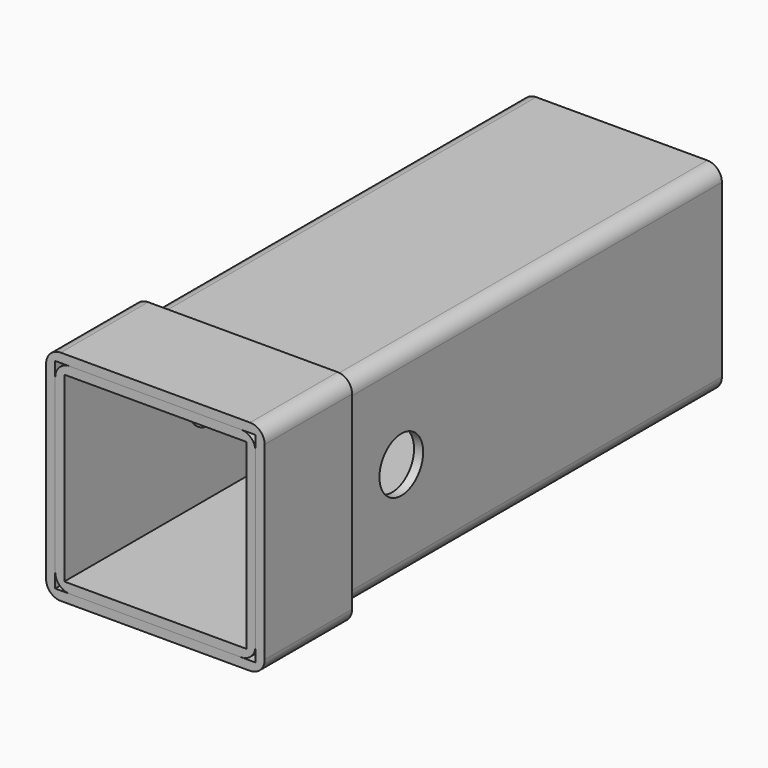
from build123d import *

# Parameters (mm, degrees)
F0_W     = 69.85
F0_H     = 69.85
F0_W_2   = 63.5
F0_H_2   = 63.5
F1_DEPTH = 203.2
F0_W_3   = 76.2
F0_H_3   = 76.2
F2_DEPTH = 38.1
F3_R     = 5.08
F3_2_R   = 5.08
F5_D     = 19.05


with BuildPart() as f1:
    # F0 (on Front) → F1 (new body)
    with BuildSketch(Plane.XZ):
        Rectangle(F0_W, F0_H)
        Rectangle(F0_W_2, F0_H_2, mode=Mode.SUBTRACT)
    extrude(amount=-F1_DEPTH)

    # F3
    f3_edges = [f1.edges().sort_by_distance(p)[0] for p in [
        (34.925, 101.6, 34.925),
        (-34.925, 101.6, 34.925),
        (34.925, 101.6, -34.925),
        (-34.925, 101.6, -34.925),
    ]]
    fillet(f3_edges, radius=F3_R)

    # F5 (through all)
    with Locations(Plane.YZ.offset(34.925)):
        with Locations((63.5, 0)):
            Hole(F5_D / 2)


with BuildPart() as f2:
    # F0 (on Front) → F2 (new body)
    with BuildSketch(Plane.XZ):
        Rectangle(F0_W_3, F0_H_3)
        Rectangle(F0_W, F0_H, mode=Mode.SUBTRACT)
    extrude(amount=-F2_DEPTH)

    # F3#2
    f3_2_edges = [f2.edges().sort_by_distance(p)[0] for p in [
        (38.1, 19.05, 38.1),
        (-38.1, 19.05, 38.1),
        (38.1, 19.05, -38.1),
        (-38.1, 19.05, -38.1),
    ]]
    fillet(f3_2_edges, radius=F3_2_R)


solid = Compound([f1.part, f2.part])
